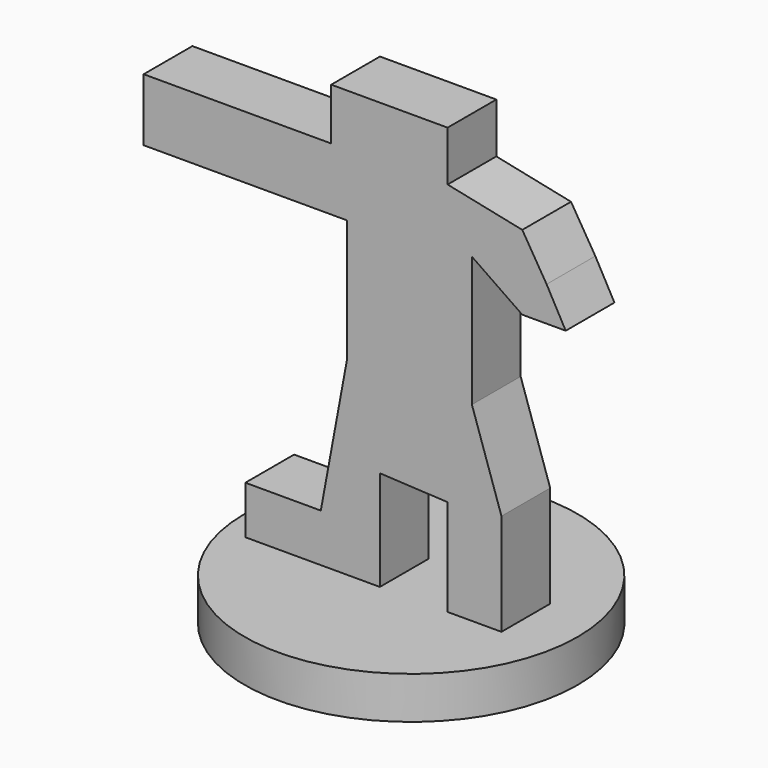
from build123d import *

# Parameters (mm, degrees)
F0_R     = 12.5
F1_DEPTH = 3.175
F2_W     = 7.63344
F2_H     = 4.692908
F3_DEPTH = 2.286


with BuildPart() as f1:
    # F0 (on Top) → F1 (new body)
    with BuildSketch(Plane.XY):
        Circle(F0_R)
    extrude(amount=F1_DEPTH)

    # F2 (on Front) → F3 (join, symmetric)
    with BuildSketch(Plane.XZ):
        Polygon((-10.613647, 6.779125), (-10.613647, 3.175), (-0.518322, 3.175), (-0.518322, 10.689883), (4.565662, 10.429165), (4.565662, 3.175), (8.606777, 3.175), (8.606777, 10.820241), (6.390681, 17.468527), (6.390681, 27.245419), (10.171079, 24.638249), (13.430044, 24.638249), (11.9961, 27.245419), (10.171079, 30.243667), (4.565662, 31.416893), (4.565662, 35.175), (-4.168362, 35.175), (-4.168362, 31.286534), (-10.613647, 31.286534), (-10.613647, 26.593626), (-2.995135, 26.593626), (-2.995135, 17.33817), (-4.950513, 6.779125), align=None)
        with Locations((-14.430367, 28.94008)):
            Rectangle(F2_W, F2_H)
    extrude(amount=F3_DEPTH, both=True)


solid = f1.part
